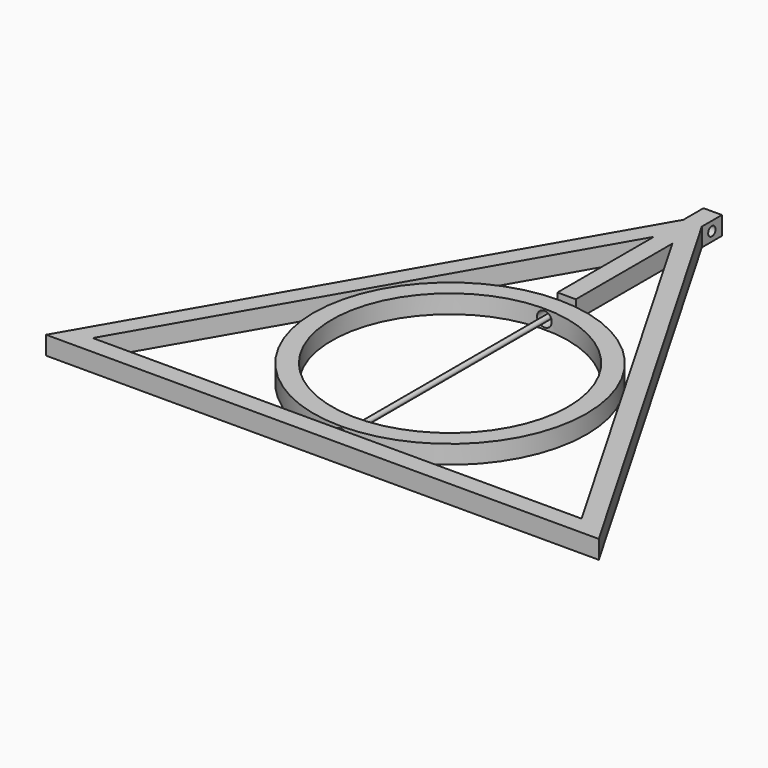
from build123d import *

# Parameters (mm, degrees)
F2_DEPTH = 1.5
F1_R     = 11.1153810568
F1_R_2   = 9.6153810568
F3_R     = 0.6
F3_R_2   = 0.2
F4_DEPTH = 23.3557621135
F5_DEPTH = 23.3557621135
F6_R     = 0.375
F7_DEPTH = 1.5


with BuildPart() as f2:
    # F1 (on Top) → F2 (new body)
    with BuildSketch(Plane.XY):
        Polygon((-0.75, 33.1721050646), (0, 34.4711431703), (0.75, 33.1721050646), (0.75, 36.1721050646), (0, 37.4711431703), (-0.75, 36.1721050646), align=None)
        Polygon((-19.9019237886, 0), (-0.75, 33.1721050646), (-0.75, 36.1721050646), (-22.5, -1.5), (22.5, -1.5), (0.75, 36.1721050646), (0.75, 33.1721050646), (19.9019237886, 0), align=None)
        Polygon((-0.75, 38.2211431703), (-0.75, 36.1721050646), (0, 37.4711431703), (0.75, 36.1721050646), (0.75, 38.2211431703), align=None)
        Polygon((0.75, 33.1721050646), (0, 34.4711431703), (-0.75, 33.1721050646), (-0.75, 23.3557621135), (0.75, 23.3557621135), align=None)
    extrude(amount=F2_DEPTH)

    # F3 (on face) → F5 (join, through all)
    with BuildSketch(Plane.XZ.offset(-23.3557621135)):
        with Locations((0, 0.75)):
            Circle(F3_R_2)
    extrude(amount=F5_DEPTH)

    # F6 (on face) → F7 (cut, through all)
    with BuildSketch(Plane.YZ.offset(0.75)):
        with Locations((37.1966241175, 0.75)):
            Circle(F6_R)
    extrude(amount=-F7_DEPTH, mode=Mode.SUBTRACT)


with BuildPart() as f2b:
    # F1 (on Top) → F2, piece 2 (new body)
    with BuildSketch(Plane.XY):
        with Locations((0, 11.4903810568)):
            Circle(F1_R)
        with Locations((0, 11.4903810568)):
            Circle(F1_R_2, mode=Mode.SUBTRACT)
    extrude(amount=F2_DEPTH)

    # F3 (on face) → F4 (cut, through all)
    with BuildSketch(Plane.XZ.offset(-23.3557621135)):
        with Locations((0, 0.75)):
            Circle(F3_R)
        with Locations((0, 0.75)):
            Circle(F3_R_2, mode=Mode.SUBTRACT)
        with Locations((0, 0.75)):
            Circle(F3_R_2)
    extrude(amount=F4_DEPTH, mode=Mode.SUBTRACT)


solid = Compound([f2.part, f2b.part])
